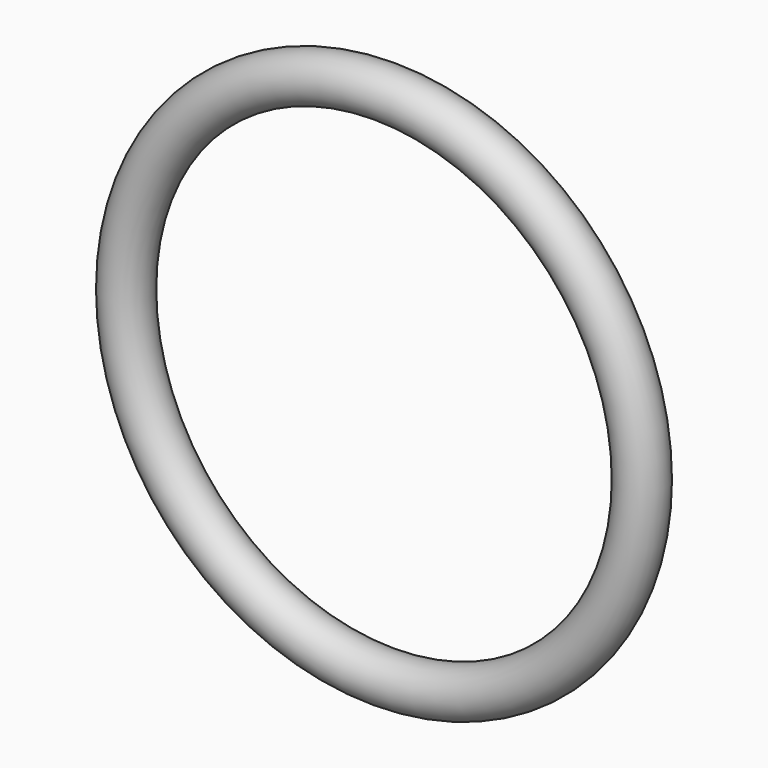
from build123d import *

# Parameters (mm, degrees)
F3_R   = 19
F3_R_2 = 15.5


with BuildPart() as f4:
    # F4: sweep along a path in F0
    with BuildLine(Plane.XZ) as f4_path:
        CenterArc((0, 187.5), 200, 0, 360)
    # F3 (on face) → F4 (sweep)
    with BuildSketch(Plane(origin=(-59.38914, 0, 21.210407), x_dir=(0, -1, 0), z_dir=(-0.941742, 0, 0.336336))):
        with Locations((0, -31.5)):
            Circle(F3_R)
        with Locations((0, -31.5)):
            Circle(F3_R_2, mode=Mode.SUBTRACT)
    sweep(path=f4_path.line)


solid = f4.part
